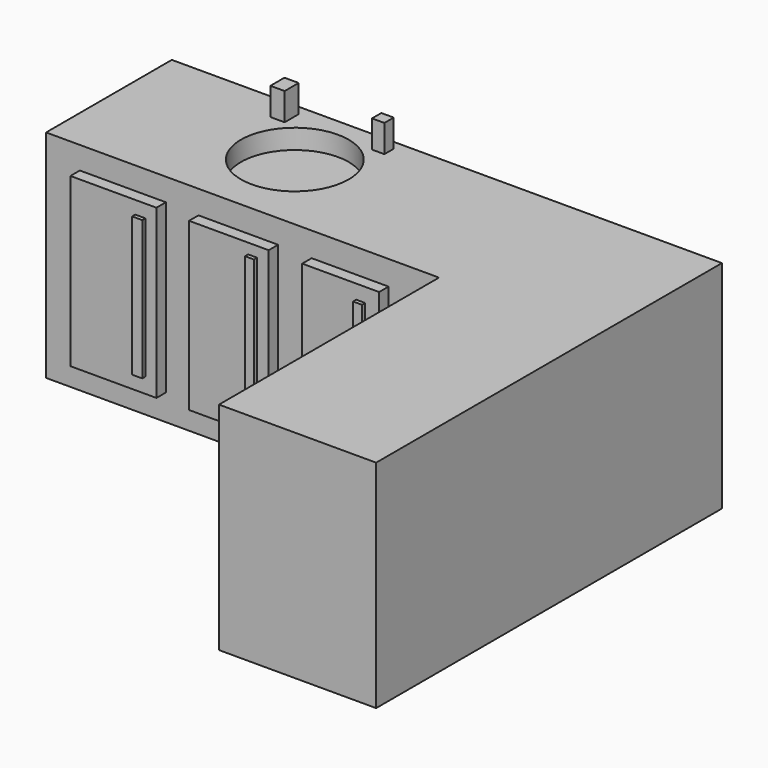
from build123d import *

# Parameters (mm, degrees)
F0_W      = 50.8
F0_H      = 88.9000027377
F1_DEPTH  = 69.85
F2_R      = 20.0980289244
F3_DEPTH  = 6.35
F4_R      = 17.4104320073
F5_DEPTH  = 6.35
F6_W      = 4.6012029052
F6_H      = 5.6705921888
F6_W_2    = 4.0045529604
F6_H_2    = 3.7587732077
F7_DEPTH  = 8.89
F8_W      = 27.7972370386
F8_H      = 54.1314678267
F8_W_2    = 25.7490221411
F8_H_2    = 53.8388649002
F8_W_3    = 24.8712147586
F8_H_3    = 53.5462619737
F9_DEPTH  = 3.81
F10_W     = 27.7972389013
F10_H     = 54.7166722827
F10_W_2   = 26.0416157544
F10_H_2   = 54.4240698218
F11_DEPTH = 3.81
F12_W     = 3.2980442047
F12_H     = 45.0437162071
F12_W_2   = 2.8579700738
F12_H_2   = 45.5747190863
F12_W_3   = 2.8833756223
F12_H_3   = 44.0509710461
F13_DEPTH = 5.08
F14_W     = 2.9260246083
F14_H     = 43.5977773741
F14_W_2   = 3.8038305938
F14_H_2   = 42.7199658006
F15_DEPTH = 5.08


with BuildPart() as f1:
    # F0 (on Top) → F1 (new body)
    with BuildSketch(Plane.XY):
        Polygon((87.2851201832, 80.4412277794), (-90.5148798168, 80.4412277794), (-90.5148798168, 29.6412277794), (36.4851201832, 29.6412277794), (87.2851201832, 29.6412277794), align=None)
        with Locations((61.8851201832, -14.8087735895)):
            Rectangle(F0_W, F0_H)
    extrude(amount=F1_DEPTH)

    # F2 (on Top) → F3 (cut)
    with BuildSketch(Plane.XY):
        with Locations((-17.8680513054, 57.9398013651)):
            Circle(F2_R)
    extrude(amount=F3_DEPTH, mode=Mode.SUBTRACT)

    # F4 (on face) → F5 (cut)
    with BuildSketch(Plane.XY.offset(69.85)):
        with Locations((-32.23175928, 57.2901628911)):
            Circle(F4_R)
    extrude(amount=-F5_DEPTH, mode=Mode.SUBTRACT)

    # F6 (on face) → F7 (join)
    with BuildSketch(Plane.XY.offset(69.85)):
        with Locations((-49.2636710405, 74.4159296155)):
            Rectangle(F6_W, F6_H)
        with Locations((-18.4165723622, 75.5769610405)):
            Rectangle(F6_W_2, F6_H_2)
    extrude(amount=F7_DEPTH)

    # F8 (on face) → F9 (join)
    with BuildSketch(Plane.XZ.offset(-29.6412277794)):
        with Locations((-65.6948313117, 35.5044952594)):
            Rectangle(F8_W, F8_H)
        with Locations((-28.3880112693, 35.3581937961)):
            Rectangle(F8_W_2, F8_H_2)
        with Locations((7.7484010253, 35.2118923329)):
            Rectangle(F8_W_3, F8_H_3)
    extrude(amount=F9_DEPTH)

    # F10 (on face) → F11 (join)
    with BuildSketch(Plane(origin=(36.4851201832, 0, 0), x_dir=(0, -1, 0), z_dir=(-1, 0, 0))):
        with Locations((-0.9502042085, 34.9192901049)):
            Rectangle(F10_W, F10_H)
        with Locations((38.8437379152, 35.0655913353)):
            Rectangle(F10_W_2, F10_H_2)
    extrude(amount=F11_DEPTH)

    # F12 (on face) → F13 (join)
    with BuildSketch(Plane.XZ.offset(-29.6412277794)):
        with Locations((-56.999836117, 35.8716500923)):
            Rectangle(F12_W, F12_H)
        with Locations((-20.7188213244, 36.1371515319)):
            Rectangle(F12_W_2, F12_H_2)
        with Locations((14.2113375477, 35.3752775118)):
            Rectangle(F12_W_3, F12_H_3)
    extrude(amount=F13_DEPTH)

    # F14 (on face) → F15 (join)
    with BuildSketch(Plane(origin=(36.4851201832, 0, 0), x_dir=(0, -1, 0), z_dir=(-1, 0, 0))):
        with Locations((7.9741724767, 35.7970981859)):
            Rectangle(F14_W, F14_H)
        with Locations((46.7440057546, 35.6507943943)):
            Rectangle(F14_W_2, F14_H_2)
    extrude(amount=F15_DEPTH)


solid = f1.part
